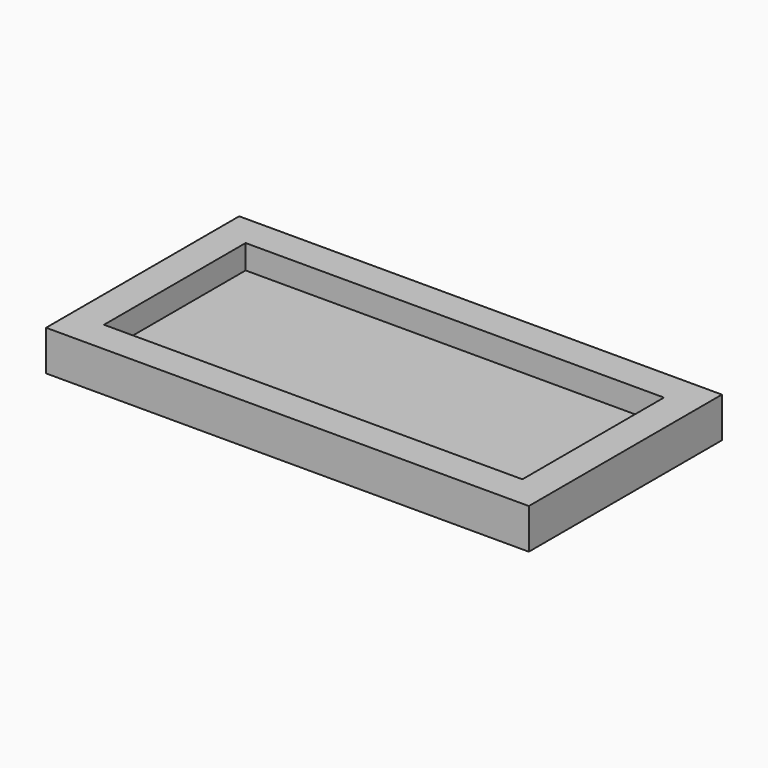
from build123d import *

# Parameters (mm, degrees)
SKETCH_W     = 60
SKETCH_H     = 30
PAD_DEPTH    = 5
SKETCH001_W  = 52
SKETCH001_H  = 22
POCKET_DEPTH = 3


with BuildPart() as part:
    # Sketch → Pad (new body)
    with BuildSketch(Plane.XY):
        Rectangle(SKETCH_W, SKETCH_H)
    extrude(amount=PAD_DEPTH)

    # Sketch001 (on DatumPlane) → Pocket (cut)
    with BuildSketch(Plane.XY.offset(5)):
        Rectangle(SKETCH001_W, SKETCH001_H)
    extrude(amount=-POCKET_DEPTH, mode=Mode.SUBTRACT)


solid = part.part
